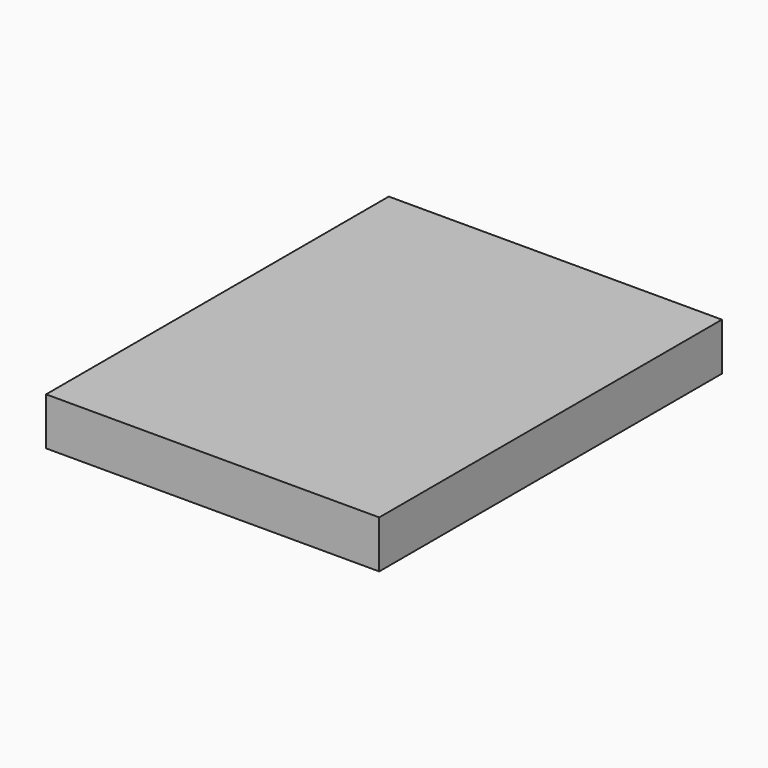
from build123d import *

# Parameters (mm, degrees)
F0_W     = 26.67
F0_H     = 34.417
F0_H_2   = 34.163
F1_DEPTH = 7.62


with BuildPart() as f1:
    # F0 (on Top) → F1 (new body)
    with BuildSketch(Plane.XY):
        with Locations((-13.335, 17.2085)):
            Rectangle(F0_W, F0_H)
        with Locations((13.335, 17.2085)):
            Rectangle(F0_W, F0_H)
        with Locations((-13.335, -17.0815)):
            Rectangle(F0_W, F0_H_2)
        with Locations((13.335, -17.0815)):
            Rectangle(F0_W, F0_H_2)
    extrude(amount=F1_DEPTH)


solid = f1.part
